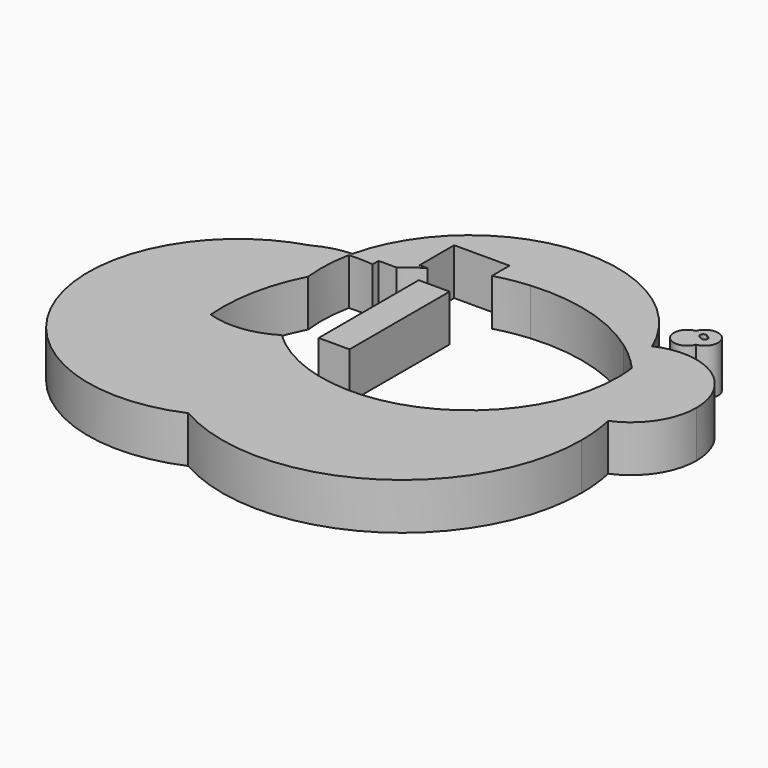
from build123d import *

# Parameters (mm, degrees)
F2_DEPTH = 25.4
F1_W     = 16.8528687209
F1_H     = 68.2831704617


with BuildPart() as f2:
    # F0 (on Top) → F2 (new body)
    with BuildSketch(Plane.XY):
        with BuildLine():
            Line((-49.5025888085, 37.0713974876), (-49.5025888085, 40.580611676))
            Line((-49.5025888085, 40.580611676), (-39.7907553246, 40.580611676))
            ThreePointArc((-39.7907553246, 40.580611676), (-34.6098015178, 44.6443329786), (-29.1679251123, 48.3513660729))
            Line((-29.1679251123, 48.3513660729), (-33.3854667842, 48.3513660729))
            Line((-33.3854667842, 48.3513660729), (-33.3854667842, 71.9514340162))
            Line((-33.3854667842, 71.9514340162), (-3.1658636872, 71.9514340162))
            Line((-3.1658636872, 71.9514340162), (-3.1658636872, 59.9276361178))
            ThreePointArc((-3.1658636872, 59.9276361178), (5.9600436723, 62.0215858009), (15.2440057959, 63.2360229941))
            ThreePointArc((15.2440057959, 63.2360229941), (49.5778198862, 59.9869622775), (80.6658483191, 45.0570703257))
            ThreePointArc((80.6658483191, 45.0570703257), (85.430622589, 48.8921812548), (90.7804225826, 51.8571078492))
            ThreePointArc((90.7804225826, 51.8571078492), (9.4634630221, 100.7013779193), (-62.2989550674, 38.6661783889))
            ThreePointArc((-62.2989550674, 38.6661783889), (-55.8389801005, 38.3645996091), (-49.5025888085, 37.0713974876))
        make_face()
        with BuildLine():
            Line((-49.5025888085, 36.4953762559), (-49.5025888085, 37.0713974876))
            ThreePointArc((-49.5025888085, 37.0713974876), (-55.8389801005, 38.3645996091), (-62.2989550674, 38.6661783889))
            ThreePointArc((-62.2989550674, 38.6661783889), (-62.5149697878, 37.7228914144), (-62.7196793883, 36.7770866486))
            ThreePointArc((-62.7196793883, 36.7770866486), (-56.1054350959, 36.9036132539), (-49.5025888085, 36.4953762559))
        make_face()
        with BuildLine():
            ThreePointArc((-62.7196793883, 36.7770866486), (-62.5149697878, 37.7228914144), (-62.2989550674, 38.6661783889))
            ThreePointArc((-62.2989550674, 38.6661783889), (-72.0064664227, 37.2167133178), (-81.1094346236, 33.5461962372))
            ThreePointArc((-81.1094346236, 33.5461962372), (-72.0070206612, 35.6879310326), (-62.7196793883, 36.7770866486))
        make_face()
        with BuildLine():
            ThreePointArc((-63.8659995996, 10.4583134456), (-64.3719474611, 23.6647008425), (-62.7196793883, 36.7770866486))
            ThreePointArc((-62.7196793883, 36.7770866486), (-72.0070206612, 35.6879310326), (-81.1094346236, 33.5461962372))
            ThreePointArc((-81.1094346236, 33.5461962372), (-102.7079827023, -6.8058090209), (-74.4437638245, -42.8046359281))
            ThreePointArc((-74.4437638245, -42.8046359281), (-72.9135561951, -15.4267066617), (-63.8659995996, 10.4583134456))
        make_face()
        with BuildLine():
            ThreePointArc((141.0155446812, 19.2829854786), (124.7483672687, 49.218920993), (90.7804225826, 51.8571078492))
            ThreePointArc((90.7804225826, 51.8571078492), (94.3912384761, 41.4869150844), (96.5636117978, 30.723101469))
            ThreePointArc((96.5636117978, 30.723101469), (110.7188146873, 10.0132285595), (119.159266122, -13.6093746914))
            ThreePointArc((119.159266122, -13.6093746914), (135.053300791, -0.4629271998), (141.0155446812, 19.2829854786))
        make_face()
        with BuildLine():
            ThreePointArc((96.5636117978, 30.723101469), (94.3912384761, 41.4869150844), (90.7804225826, 51.8571078492))
            ThreePointArc((90.7804225826, 51.8571078492), (85.430622589, 48.8921812548), (80.6658483191, 45.0570703257))
            ThreePointArc((80.6658483191, 45.0570703257), (89.0068432279, 38.3249774817), (96.5636117978, 30.723101469))
        make_face()
        with BuildLine():
            ThreePointArc((-74.4437638245, -42.8046359281), (-102.7079827023, -6.8058090209), (-81.1094346236, 33.5461962372))
            ThreePointArc((-81.1094346236, 33.5461962372), (-134.7050259775, -72.9626037486), (-25.0869596842, -119.8719997061))
            ThreePointArc((-25.0869596842, -119.8719997061), (-59.3024078551, -87.4461966052), (-74.4437638245, -42.8046359281))
        make_face()
        with BuildLine():
            ThreePointArc((119.159266122, -13.6093746914), (110.7188146873, 10.0132285595), (96.5636117978, 30.723101469))
            ThreePointArc((96.5636117978, 30.723101469), (97.0844987994, 25.446170827), (97.2583770877, 20.1464456823))
            ThreePointArc((97.2583770877, 20.1464456823), (95.4614877023, 3.1953214101), (90.1506877844, -13.0023583553))
            ThreePointArc((90.1506877844, -13.0023583553), (104.5904854335, -16.3878384409), (119.159266122, -13.6093746914))
        make_face()
        with BuildLine():
            ThreePointArc((-38.9872045552, -38.7517134075), (-56.2618387916, -44.7468429236), (-74.4437638245, -42.8046359281))
            ThreePointArc((-74.4437638245, -42.8046359281), (-59.3024078551, -87.4461966052), (-25.0869596842, -119.8719997061))
            ThreePointArc((-25.0869596842, -119.8719997061), (6.0174306384, -96.0404292132), (22.473639917, -60.4789328206))
            ThreePointArc((22.473639917, -60.4789328206), (-10.5435041052, -56.0838844784), (-38.9872045552, -38.7517134075))
        make_face()
        with BuildLine():
            ThreePointArc((22.473639917, -60.4789328206), (6.0174306384, -96.0404292132), (-25.0869596842, -119.8719997061))
            ThreePointArc((-25.0869596842, -119.8719997061), (72.6903570249, -119.3093511098), (121.4173114057, -34.5366895199))
            ThreePointArc((121.4173114057, -34.5366895199), (120.8511665295, -24.0122979171), (119.159266122, -13.6093746914))
            ThreePointArc((119.159266122, -13.6093746914), (104.5904854335, -16.3878384409), (90.1506877844, -13.0023583553))
            ThreePointArc((90.1506877844, -13.0023583553), (62.8386839696, -46.0440888012), (22.473639917, -60.4789328206))
        make_face()
    extrude(amount=F2_DEPTH)


with BuildPart() as f2b:
    # F0 (on Top) → F2, piece 2 (new body)
    with BuildSketch(Plane.XY):
        with BuildLine():
            ThreePointArc((104.4322752931, 64.6640678834), (108.9133387627, 67.1475038668), (110.6936868247, 71.9514340162))
            ThreePointArc((110.6936868247, 71.9514340162), (104.6870574646, 79.1954088108), (96.4562194542, 74.6338221634))
            ThreePointArc((96.4562194542, 74.6338221634), (98.6289635531, 74.6408657983), (100.7093771868, 74.0141715792))
            ThreePointArc((100.7093771868, 74.0141715792), (102.1251836507, 74.4755119971), (103.350502148, 73.6293810946))
            ThreePointArc((103.350502148, 73.6293810946), (104.5188640577, 73.1280649468), (105.0004521442, 71.9514340162))
            ThreePointArc((105.0004521442, 71.9514340162), (104.7909240798, 71.1394293752), (104.2146607213, 70.5301887919))
            ThreePointArc((104.2146607213, 70.5301887919), (104.7546280593, 68.9788517196), (104.9376465073, 67.3464560306))
            ThreePointArc((104.9376465073, 67.3464560306), (104.8102020096, 65.9816660984), (104.4322752931, 64.6640678834))
        make_face()
        with BuildLine():
            ThreePointArc((100.7093771868, 74.0141715792), (98.6289635531, 74.6408657983), (96.4562194542, 74.6338221634))
            ThreePointArc((96.4562194542, 74.6338221634), (97.566227215, 67.3464560306), (104.4322752931, 64.6640678834))
            ThreePointArc((104.4322752931, 64.6640678834), (104.8102020096, 65.9816660984), (104.9376465073, 67.3464560306))
            ThreePointArc((104.9376465073, 67.3464560306), (104.7546280593, 68.9788517196), (104.2146607213, 70.5301887919))
            ThreePointArc((104.2146607213, 70.5301887919), (102.9043597161, 70.3261166169), (101.8550054284, 71.1369123715))
            ThreePointArc((101.8550054284, 71.1369123715), (100.3241009481, 72.1940624858), (100.7093771868, 74.0141715792))
        make_face()
        with BuildLine():
            ThreePointArc((104.4322752931, 64.6640678834), (97.566227215, 67.3464560306), (96.4562194542, 74.6338221634))
            ThreePointArc((96.4562194542, 74.6338221634), (91.8101868977, 62.7414780449), (104.4322752931, 64.6640678834))
        make_face()
    extrude(amount=F2_DEPTH)


with BuildPart() as f2c:
    # F1 (on Top) → F2, piece 3 (new body)
    with BuildSketch(Plane.XY):
        with Locations((-16.5952229872, 3.2008066773)):
            Rectangle(F1_W, F1_H)
    extrude(amount=F2_DEPTH)


solid = Compound([f2.part, f2b.part, f2c.part])
